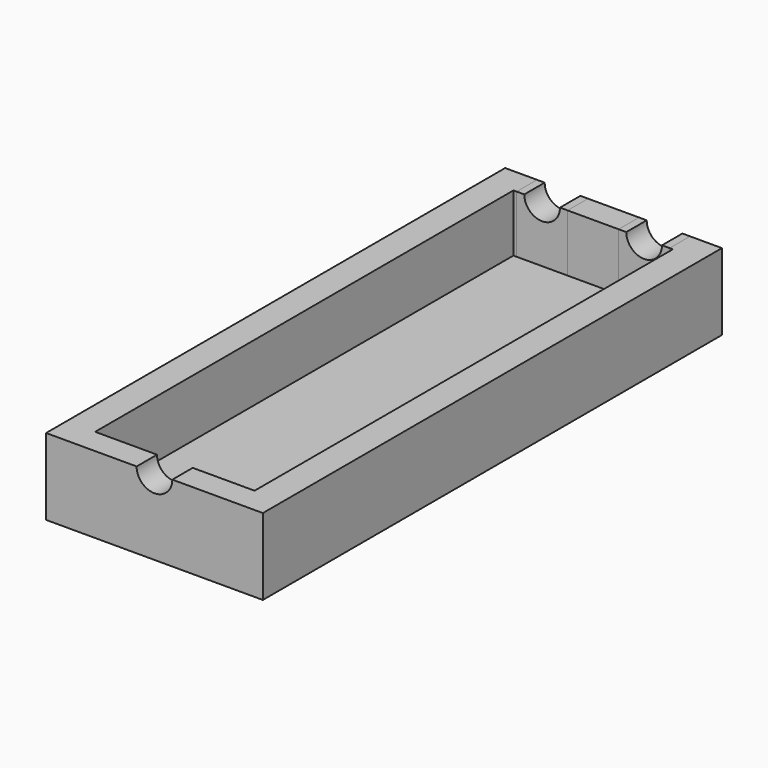
from build123d import *

# Parameters (mm, degrees)
F0_W       = 8
F0_H       = 3.880266
F0_H_2     = 3.995562
F1_DEPTH   = 12
F0_W_2     = 0.5
F3_DEPTH   = 12
F4_D       = 5.6
F4_DEPTH   = 20
F4_2_D     = 5.6
F4_2_DEPTH = 20
F7_D       = 5.6
F7_DEPTH   = 20
F7_2_D     = 5.6
F7_2_DEPTH = 20
F8_D       = 5.6
F8_DEPTH   = 20
F8_2_D     = 5.6
F8_2_DEPTH = 20
F9_DEPTH   = 3


with BuildPart() as f1:
    # F0 (on Top) → F1 (new body)
    with BuildSketch(Plane.XY):
        with Locations((0, -43.059867)):
            Rectangle(F0_W, F0_H)
        with Locations((-8, 42.997781)):
            Rectangle(F0_W, F0_H_2)
        with Locations((8, 42.997781)):
            Rectangle(F0_W, F0_H_2)
    extrude(amount=F1_DEPTH)

    # F4
    with Locations(Plane.XZ.offset(45)):
        with Locations((0, 12)):
            Hole(F4_D / 2, depth=F4_DEPTH)

    # F7
    with Locations(Plane.XZ.offset(-41)):
        with Locations((8, 12)):
            Hole(F7_D / 2, depth=F7_DEPTH)

    # F8
    with Locations(Plane.XZ.offset(-41)):
        with Locations((-8, 12)):
            Hole(F8_D / 2, depth=F8_DEPTH)


with BuildPart() as f3:
    # F0 (on Top) → F3 (new body)
    with BuildSketch(Plane.XY):
        with Locations((0, -43.059867)):
            Rectangle(F0_W, F0_H)
        Polygon((4, -45), (17, -45), (17, 45), (-17, 45), (-17, -45), (-4, -45), (-4, -41.119734), (4, -41.119734), align=None)
        Polygon((12.5, 44.995562), (12.5, 41), (12.5, -41), (-12.5, -41), (-12.5, 41), (-12, 41), (-12, 44.995562), (-4, 44.995562), (4, 44.995562), (12, 44.995562), align=None, mode=Mode.SUBTRACT)
        with Locations((12.25, 42.997781)):
            Rectangle(F0_W_2, F0_H_2)
        with Locations((0, 42.997781)):
            Rectangle(F0_W, F0_H_2)
    extrude(amount=F3_DEPTH)

    # F4#2
    with Locations(Plane.XZ.offset(45)):
        with Locations((0, 12)):
            Hole(F4_2_D / 2, depth=F4_2_DEPTH)

    # F7#2
    with Locations(Plane.XZ.offset(-41)):
        with Locations((8, 12)):
            Hole(F7_2_D / 2, depth=F7_2_DEPTH)

    # F8#2
    with Locations(Plane.XZ.offset(-41)):
        with Locations((-8, 12)):
            Hole(F8_2_D / 2, depth=F8_2_DEPTH)


with BuildPart() as f9:
    # F0 (on Top) → F9 (new body)
    with BuildSketch(Plane.XY):
        Polygon((12.5, -41), (12.5, 41), (12, 41), (4, 41), (-4, 41), (-12, 41), (-12.5, 41), (-12.5, -41), align=None)
    extrude(amount=F9_DEPTH)


solid = Compound([f1.part, f3.part, f9.part])
